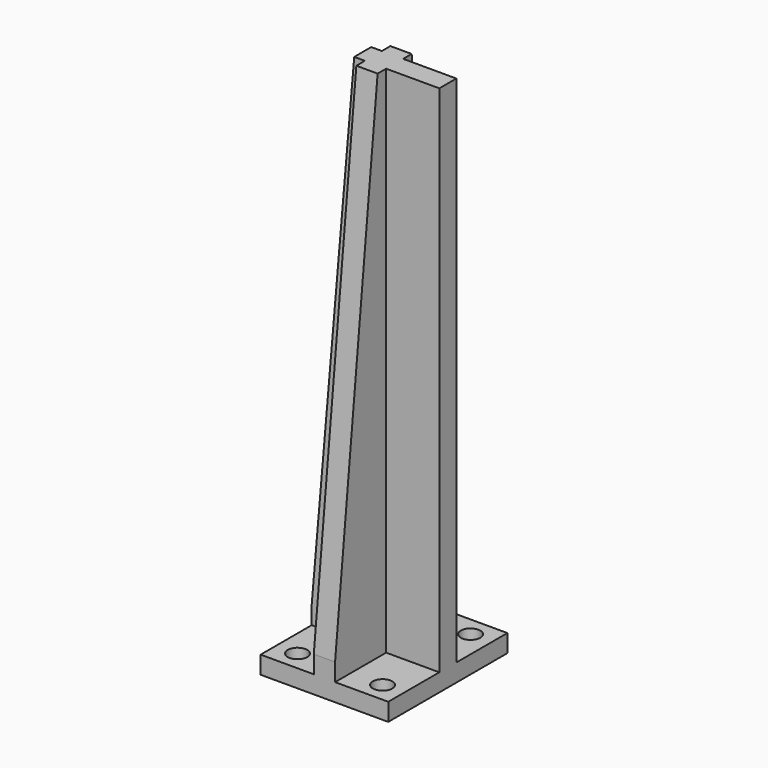
from build123d import *

# Parameters (mm, degrees)
F0_W     = 15
F0_H     = 18
F0_R     = 2.75
F1_DEPTH = 5
F0_W_2   = 6
F0_H_2   = 6
F2_DEPTH = 150
F3_SIZE2 = 140
F3_SIZE  = 15
F4_SIZE2 = 15
F4_SIZE  = 140
F5_SIZE2 = 12
F5_SIZE  = 140


with BuildPart() as f1:
    # F0 (on Top) → F1 (new body)
    with BuildSketch(Plane.XY):
        with Locations((10.5, 12)):
            Rectangle(F0_W, F0_H)
        with Locations((12, 15.5)):
            Circle(F0_R, mode=Mode.SUBTRACT)
    extrude(amount=F1_DEPTH)



with BuildPart() as f1b:
    # F0 (on Top) → F1, piece 2 (new body)
    with BuildSketch(Plane.XY):
        with Locations((-10.5, 12)):
            Rectangle(F0_W, F0_H)
        with Locations((-12, 15.5)):
            Circle(F0_R, mode=Mode.SUBTRACT)
    extrude(amount=F1_DEPTH)


with BuildPart() as f1c:
    # F0 (on Top) → F1, piece 3 (new body)
    with BuildSketch(Plane.XY):
        with Locations((-10.5, -12)):
            Rectangle(F0_W, F0_H)
        with Locations((-12, -15.5)):
            Circle(F0_R, mode=Mode.SUBTRACT)
    extrude(amount=F1_DEPTH)


with BuildPart() as f1d:
    # F0 (on Top) → F1, piece 4 (new body)
    with BuildSketch(Plane.XY):
        with Locations((10.5, -12)):
            Rectangle(F0_W, F0_H)
        with Locations((12, -15.5)):
            Circle(F0_R, mode=Mode.SUBTRACT)
    extrude(amount=F1_DEPTH)


with BuildPart() as f1_1:
    add(f1.part)

    add(f1b.part)  # F2 merges F1b

    add(f1c.part)  # F2 merges F1c

    add(f1d.part)  # F2 merges F1d
    # F0 (on Top) → F2 (join)
    with BuildSketch(Plane.XY):
        with Locations((0, 12)):
            Rectangle(F0_W_2, F0_H)
        with Locations((0, -12)):
            Rectangle(F0_W_2, F0_H)
        with Locations((10.5, 0)):
            Rectangle(F0_W, F0_H_2)
        with Locations((-10.5, 0)):
            Rectangle(F0_W, F0_H_2)
        Rectangle(F0_W_2, F0_H_2)
    extrude(amount=F2_DEPTH)

    # F3
    f3_edges = [f1_1.edges().sort_by_distance(p)[0] for p in [
        (0, 21, 150),
    ]]
    f3_side = f1_1.faces().sort_by_distance((0, 0, 150))[0]
    chamfer(f3_edges, length=F3_SIZE, length2=F3_SIZE2, reference=f3_side)

    # F4
    f4_edges = [f1_1.edges().sort_by_distance(p)[0] for p in [
        (0, -21, 150),
    ]]
    f4_side = f1_1.faces().sort_by_distance((0, -21, 64.642857))[0]
    chamfer(f4_edges, length=F4_SIZE, length2=F4_SIZE2, reference=f4_side)

    # F5
    f5_edges = [f1_1.edges().sort_by_distance(p)[0] for p in [
        (-18, 0, 150),
    ]]
    f5_side = f1_1.faces().sort_by_distance((-18, 0, 62.916667))[0]
    chamfer(f5_edges, length=F5_SIZE, length2=F5_SIZE2, reference=f5_side)


solid = f1_1.part
